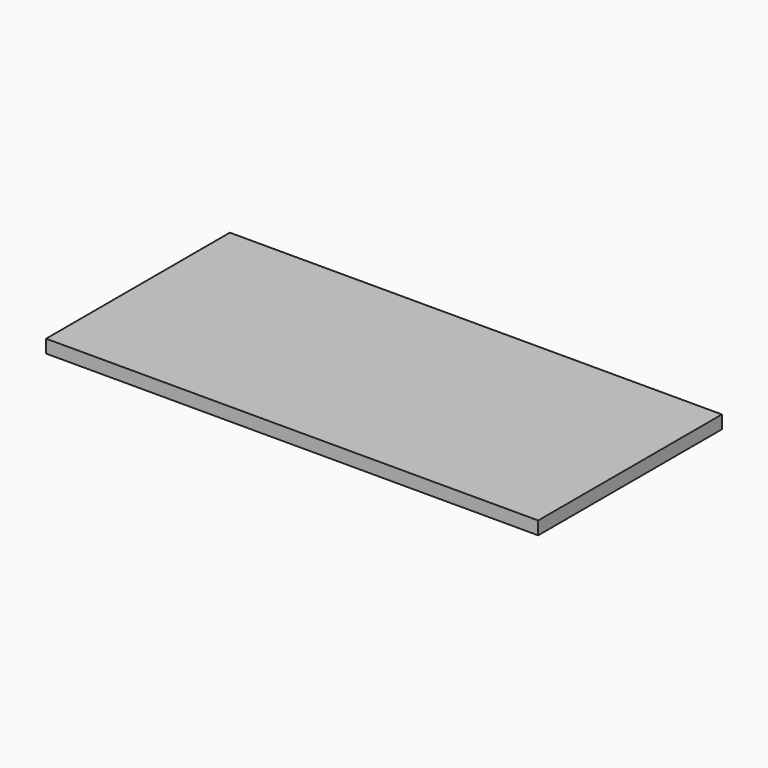
from build123d import *

# Parameters (mm, degrees)
F1_W     = 1500
F1_H     = 700
F1_W_2   = 1380
F1_H_2   = 580
F2_DEPTH = 40
F3_T     = -1.2
F4_DEPTH = 1.2
F6_START = 18.8
F5_W     = 1460
F5_H     = 660
F6_DEPTH = 20


with BuildPart() as f2:
    # F1 (on Top) → F2 (new body)
    with BuildSketch(Plane.XY):
        with Locations((750, 350)):
            Rectangle(F1_W, F1_H)
        with Locations((750, 350)):
            Rectangle(F1_W_2, F1_H_2, mode=Mode.SUBTRACT)
        with Locations((750, 350)):
            Rectangle(F1_W_2, F1_H_2)
    extrude(amount=F2_DEPTH)

    # F3
    f3_openings = [f2.faces().sort_by_distance(p)[0] for p in [
        (750, 350, 0),
    ]]
    offset(amount=F3_T, openings=f3_openings)

    # F1 (on Top) → F4 (join)
    with BuildSketch(Plane.XY):
        with Locations((750, 350)):
            Rectangle(F1_W, F1_H)
        with Locations((750, 350)):
            Rectangle(F1_W_2, F1_H_2, mode=Mode.SUBTRACT)
    extrude(amount=F4_DEPTH)


with BuildPart() as f6:
    # F5 (on Top) → F6 (new body)
    with BuildSketch(Plane.XY.offset(F6_START)):
        with Locations((750, 350)):
            Rectangle(F5_W, F5_H)
    extrude(amount=F6_DEPTH)


solid = Compound([f2.part, f6.part])
